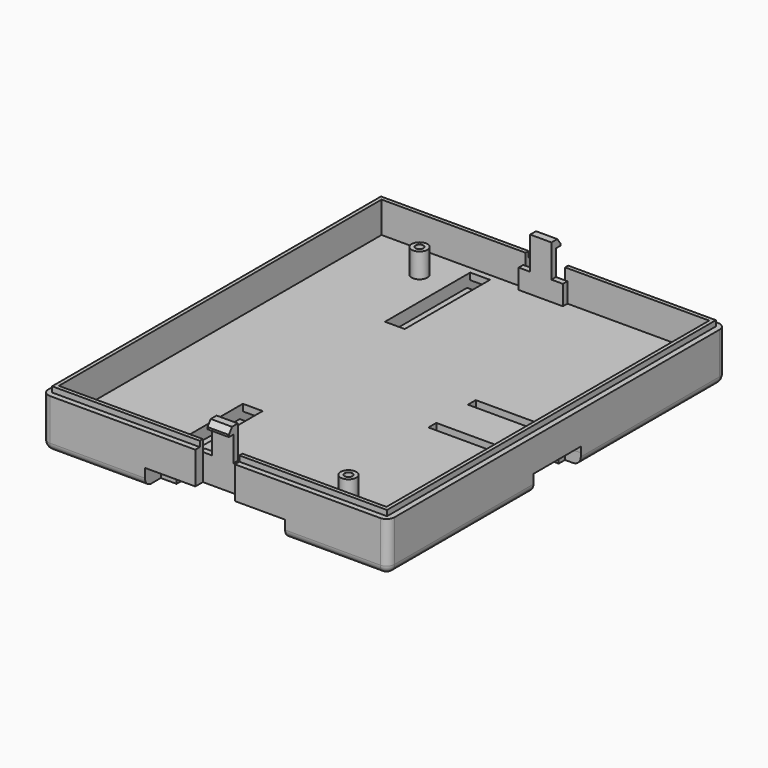
from build123d import *

# Parameters (mm, degrees)
PAD002_DEPTH    = 53.5
SKETCH009_W     = 83
SKETCH009_H     = 102.2
POCKET005_DEPTH = 7.9
SKETCH010_R     = 2
SKETCH010_R_2   = 1
PAD003_DEPTH    = 6.2
SKETCH011_W     = 3
SKETCH011_H     = 25
PAD004_DEPTH    = 4
CHAMFER001_SIZE = 1
POCKET006_DEPTH = 26.1
CHAMFER002_SIZE = 0.5
SKETCH013_W     = 4.3
SKETCH013_H     = 15
POCKET007_DEPTH = 4
SKETCH014_W     = 23.1
SKETCH014_H     = 2.5
SKETCH014_W_2   = 5
SKETCH014_H_2   = 27
POCKET008_DEPTH = 1.7
SKETCH015_W     = 3.85
SKETCH015_H     = 13.9
POCKET009_DEPTH = 5
PAD005_DEPTH    = 2.7
SKETCH017_W     = 1.45
SKETCH017_H     = 6.7
PAD006_DEPTH    = 5.6
FILLET002_R     = 2
SKETCH018_W     = 87.7
SKETCH018_H     = 107
SKETCH018_W_2   = 84.84
SKETCH018_H_2   = 104.14
POCKET010_DEPTH = 1.4


with BuildPart() as part:
    # Sketch008 → Pad002 (new body, symmetric)
    with BuildSketch(Plane.XZ):
        Polygon((43.85, 9.6), (-43.85, 9.6), (-43.85, -4.3), (-17.75, -4.3), (-17.75, 0), (17.75, 0), (17.75, -4.3), (43.85, -4.3), align=None)
    extrude(amount=PAD002_DEPTH, both=True)

    # Sketch009 (on Face1 of Pad002) → Pocket005 (cut)
    with BuildSketch(Plane(origin=(0, 0, 9.6), x_dir=(-1, 0, 0), z_dir=(0, 0, 1))):
        Rectangle(SKETCH009_W, SKETCH009_H)
    extrude(amount=-POCKET005_DEPTH, mode=Mode.SUBTRACT)

    # Sketch010 (on Face15 of Pocket005) → Pad003 (join)
    with BuildSketch(Plane(origin=(0, 0, 1.7), x_dir=(-1, 0, 0), z_dir=(0, 0, 1))):
        with Locations((25, -42.5)):
            Circle(SKETCH010_R)
        with Locations((25, -42.5)):
            Circle(SKETCH010_R_2, mode=Mode.SUBTRACT)
        with Locations((-25, 42.5)):
            Circle(SKETCH010_R)
        with Locations((-25, 42.5)):
            Circle(SKETCH010_R_2, mode=Mode.SUBTRACT)
    extrude(amount=PAD003_DEPTH)

    # Sketch011 (on Face12 of Pad003) → Pad004 (join)
    with BuildSketch(Plane(origin=(-17.75, 0, 0), x_dir=(0, 0, 1), z_dir=(1, 0, 0))):
        with Locations((-2.8, -36)):
            Rectangle(SKETCH011_W, SKETCH011_H)
        with Locations((-2.8, 36)):
            Rectangle(SKETCH011_W, SKETCH011_H)
    extrude(amount=PAD004_DEPTH)

    # Chamfer001
    chamfer001_edges = [part.edges().sort_by_distance(p)[0] for p in [
        (-13.75, 36, -1.3),
        (-13.75, -36, -1.3),
    ]]
    chamfer(chamfer001_edges, length=CHAMFER001_SIZE)

    # Sketch012 (on Face19 of Chamfer001) → Pocket006 (cut)
    with BuildSketch(Plane(origin=(43.85, 0, 0), x_dir=(0, 0, 1), z_dir=(1, 0, 0))):
        Polygon((0, 7.5), (-1.4, 7.5), (-1.4, 5.5), (-6.4, 5.5), (-6.4, -5.5), (-1.4, -5.5), (-1.4, -7.500011), (0, -7.5), align=None)
    extrude(amount=-POCKET006_DEPTH, mode=Mode.SUBTRACT)

    # Chamfer002
    chamfer002_edges = [part.edges().sort_by_distance(p)[0] for p in [
        (30.8, -5.5, -1.4),
        (30.8, 5.5, -1.4),
    ]]
    chamfer(chamfer002_edges, length=CHAMFER002_SIZE)

    # Sketch013 (on Face9 of Chamfer002) → Pocket007 (cut)
    with BuildSketch(Plane(origin=(43.85, 0, 0), x_dir=(0, 0, 1), z_dir=(1, 0, 0))):
        with Locations((-2.15, 0)):
            Rectangle(SKETCH013_W, SKETCH013_H)
    extrude(amount=-POCKET007_DEPTH, mode=Mode.SUBTRACT)

    # Sketch014 (on Face33 of Pocket007) → Pocket008 (cut)
    with BuildSketch(Plane(origin=(0, 0, 1.7), x_dir=(-1, 0, 0), z_dir=(0, 0, 1))):
        with Locations((-28.8, -6.25)):
            Rectangle(SKETCH014_W, SKETCH014_H)
        with Locations((15.25, -36)):
            Rectangle(SKETCH014_W_2, SKETCH014_H_2)
        with Locations((-28.8, 6.25)):
            Rectangle(SKETCH014_W, SKETCH014_H)
        with Locations((15.25, 36)):
            Rectangle(SKETCH014_W_2, SKETCH014_H_2)
    extrude(amount=-POCKET008_DEPTH, mode=Mode.SUBTRACT)

    # Sketch015 → Pocket009 (cut, symmetric)
    with BuildSketch(Plane.YZ):
        with Locations((51.575, 2.65)):
            Rectangle(SKETCH015_W, SKETCH015_H)
    pocket009 = extrude(amount=POCKET009_DEPTH, both=True, mode=Mode.SUBTRACT)

    # Sketch016 → Pad005 (join, symmetric)
    with BuildSketch(Plane.YZ):
        Polygon((49.65, 0), (49.65, 15), (51.5, 15), (52.5, 13.6), (52.5, 13.1), (51.1, 13.1), (51.1, 0), align=None)
    pad005 = extrude(amount=PAD005_DEPTH, both=True)

    # Sketch017 → Pad006 (join, symmetric)
    with BuildSketch(Plane.YZ):
        with Locations((50.375, 3.35)):
            Rectangle(SKETCH017_W, SKETCH017_H)
    pad006 = extrude(amount=PAD006_DEPTH, both=True)

    # Mirrored003: Pocket009, Pad005, Pad006 across XZ
    add(pocket009.mirror(Plane.XZ), mode=Mode.SUBTRACT)
    add(pad005.mirror(Plane.XZ))
    add(pad006.mirror(Plane.XZ))

    # Fillet002
    fillet002_edges = [part.edges().sort_by_distance(p)[0] for p in [
        (43.85, 53.5, 2.65),
        (43.85, 30.5, -4.3),
        (30.8, 53.5, -4.3),
        (-30.8, 53.5, -4.3),
        (-43.85, 53.5, 2.65),
        (43.85, -30.5, -4.3),
        (43.85, -53.5, 2.65),
        (30.8, -53.5, -4.3),
        (-30.8, -53.5, -4.3),
        (-43.85, -53.5, 2.65),
        (-43.85, 0, -4.3),
    ]]
    fillet(fillet002_edges, radius=FILLET002_R)

    # Sketch018 (on Face71 of Fillet002) → Pocket010 (cut)
    with BuildSketch(Plane(origin=(0, 0, 9.6), x_dir=(-1, 0, 0), z_dir=(0, 0, 1))):
        Rectangle(SKETCH018_W, SKETCH018_H)
        Rectangle(SKETCH018_W_2, SKETCH018_H_2, mode=Mode.SUBTRACT)
    extrude(amount=-POCKET010_DEPTH, mode=Mode.SUBTRACT)


solid = part.part
